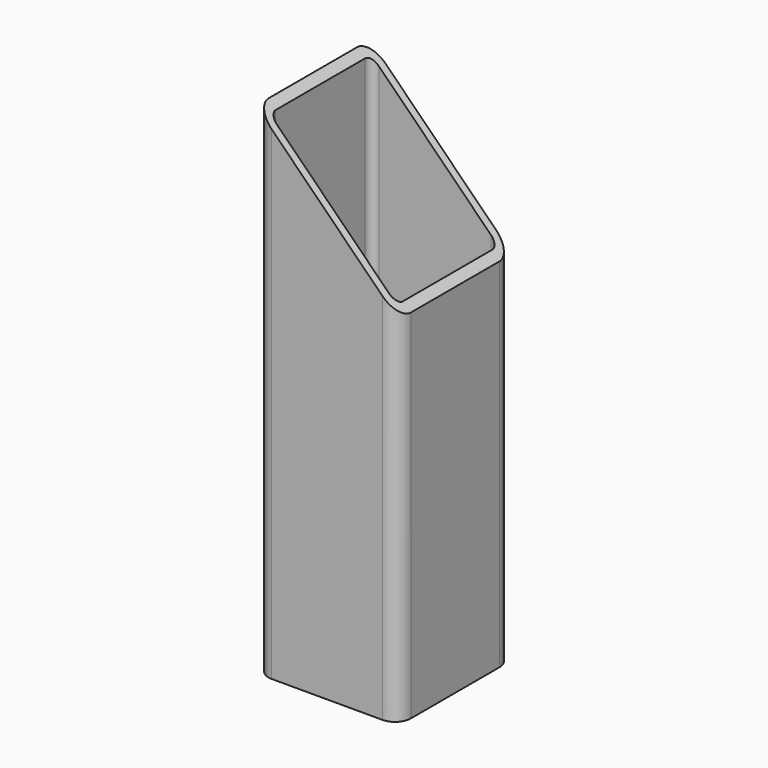
from build123d import *

# Parameters (mm, degrees)
F0_W          = 57.15
F0_H          = 57.15
F0_W_2        = 51.054
F0_H_2        = 51.054
F1_DEPTH      = 200.66
F2_R          = 3.048
F3_R          = 6.35
F5_DEPTH      = 28.576
F5_DEPTH_BACK = 28.576


with BuildPart() as f1:
    # F0 (on Top) → F1 (new body)
    with BuildSketch(Plane.XY):
        Rectangle(F0_W, F0_H)
        Rectangle(F0_W_2, F0_H_2, mode=Mode.SUBTRACT)
    extrude(amount=F1_DEPTH)

    # F2
    f2_edges = [f1.edges().sort_by_distance(p)[0] for p in [
        (25.527, 25.527, 100.33),
        (-25.527, 25.527, 100.33),
        (-25.527, -25.527, 100.33),
        (25.527, -25.527, 100.33),
    ]]
    fillet(f2_edges, radius=F2_R)

    # F3
    f3_edges = [f1.edges().sort_by_distance(p)[0] for p in [
        (-28.575, 28.575, 100.33),
        (-28.575, -28.575, 100.33),
        (28.575, -28.575, 100.33),
        (28.575, 28.575, 100.33),
    ]]
    fillet(f3_edges, radius=F3_R)

    # F4 (on Front) → F5 (cut, two sides)
    with BuildSketch(Plane.XZ) as f5_sk:
        Polygon((-28.575, 200.66), (28.575, 143.51), (28.575, 200.66), align=None)
    extrude(amount=-F5_DEPTH, mode=Mode.SUBTRACT)
    extrude(f5_sk.sketch, amount=F5_DEPTH_BACK, mode=Mode.SUBTRACT)


solid = f1.part
